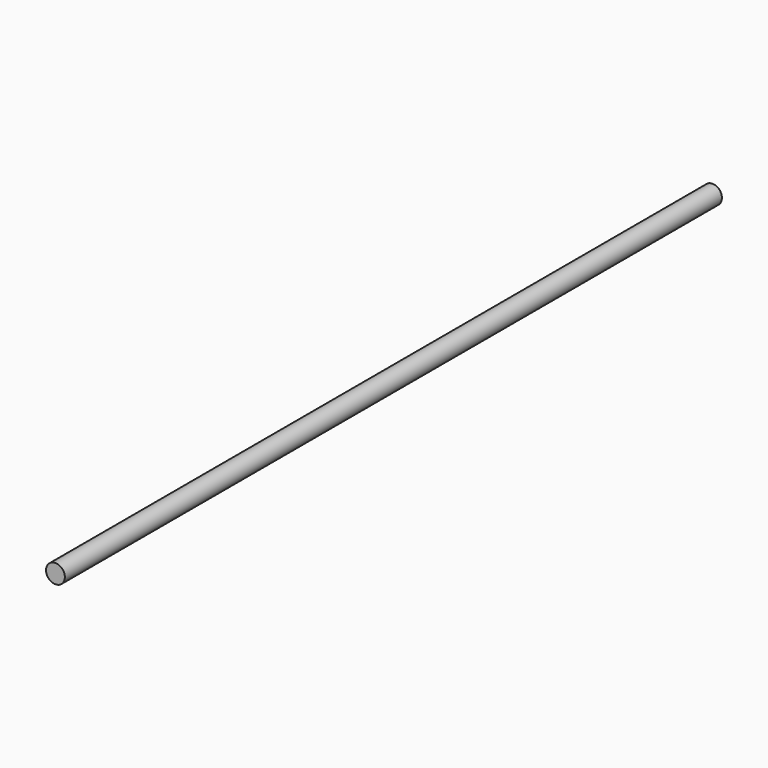
from build123d import *

# Parameters (mm, degrees)
SKETCH_R  = 4
PAD_DEPTH = 350


with BuildPart() as part:
    # Sketch → Pad (new body)
    with BuildSketch(Plane.XZ):
        Circle(SKETCH_R)
    extrude(amount=PAD_DEPTH)


solid = part.part
